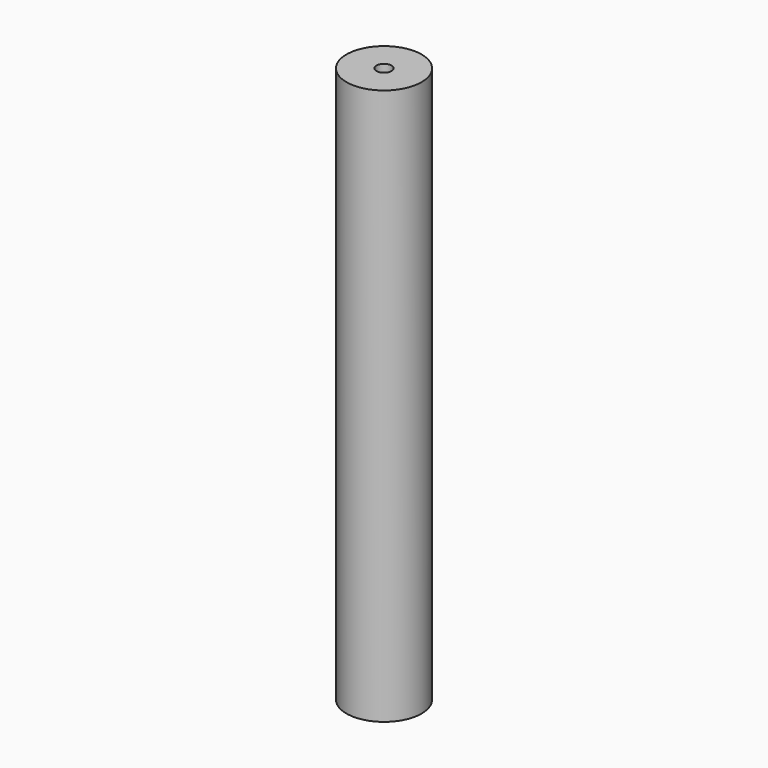
from build123d import *

# Parameters (mm, degrees)
SKETCH009_R     = 5
PAD006_DEPTH    = 74
SKETCH010_R     = 1
POCKET002_DEPTH = 5
SKETCH011_R     = 1
POCKET003_DEPTH = 5


with BuildPart() as part:
    # Sketch009 → Pad006 (new body)
    with BuildSketch(Plane.XY):
        Circle(SKETCH009_R)
    extrude(amount=PAD006_DEPTH)

    # Sketch010 → Pocket002 (cut)
    with BuildSketch(Plane.XY):
        Circle(SKETCH010_R)
    extrude(amount=-POCKET002_DEPTH, mode=Mode.SUBTRACT)

    # Sketch011 (on Face4 of Pocket002) → Pocket003 (cut)
    with BuildSketch(Plane.XY.offset(74)):
        Circle(SKETCH011_R)
    extrude(amount=-POCKET003_DEPTH, mode=Mode.SUBTRACT)


solid = part.part
